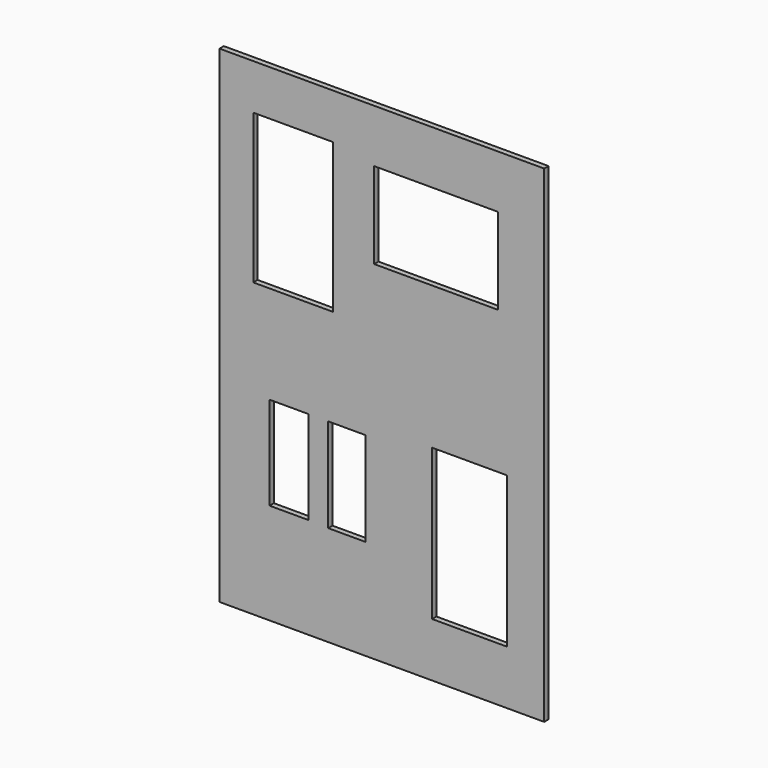
from build123d import *

# Parameters (mm, degrees)
F0_W     = 114.27175
F0_H     = 79.663723
F0_W_2   = 35.949111
F0_H_2   = 86.193543
F0_W_3   = 34.608007
F0_H_3   = 86.846526
F1_DEPTH = 5


with BuildPart() as f1:
    # F0 (on Front) → F1 (new body)
    with BuildSketch(Plane.XZ):
        Polygon((22.753648, 223.45209), (-277.246352, 223.45209), (-277.246352, 43.45209), (-245.98363, 43.45209), (-245.98363, 181.531891), (-172.196731, 181.531891), (-172.196731, 43.45209), (22.753648, 43.45209), align=None)
        with Locations((-77.187945, 134.517223)):
            Rectangle(F0_W, F0_H, mode=Mode.SUBTRACT)
        Polygon((-195.015937, 3.45209), (-277.246352, 3.45209), (-277.246352, -16.809836), (-277.246352, -176.54791), (-80.779344, -176.54791), (-80.779344, -37.216879), (-11.563324, -37.216879), (-11.563324, -176.54791), (22.753648, -176.54791), (22.753648, -16.809836), (22.753648, 0), (22.753648, 3.45209), align=None)
        with Locations((-212.990492, -90.108374)):
            Rectangle(F0_W_2, F0_H_2, mode=Mode.SUBTRACT)
        with Locations((-159.463599, -90.434866)):
            Rectangle(F0_W_3, F0_H_3, mode=Mode.SUBTRACT)
        Polygon((-245.98363, 43.45209), (-277.246352, 43.45209), (-277.246352, 23.190164), (-277.246352, 3.45209), (-195.015937, 3.45209), (22.753648, 3.45209), (22.753648, 23.190164), (22.753648, 43.45209), (-172.196731, 43.45209), align=None)
        Polygon((-80.779344, -176.54791), (-277.246352, -176.54791), (-277.246352, -226.54791), (22.753648, -226.54791), (22.753648, -176.54791), (-11.563324, -176.54791), align=None)
    extrude(amount=F1_DEPTH)


solid = f1.part
